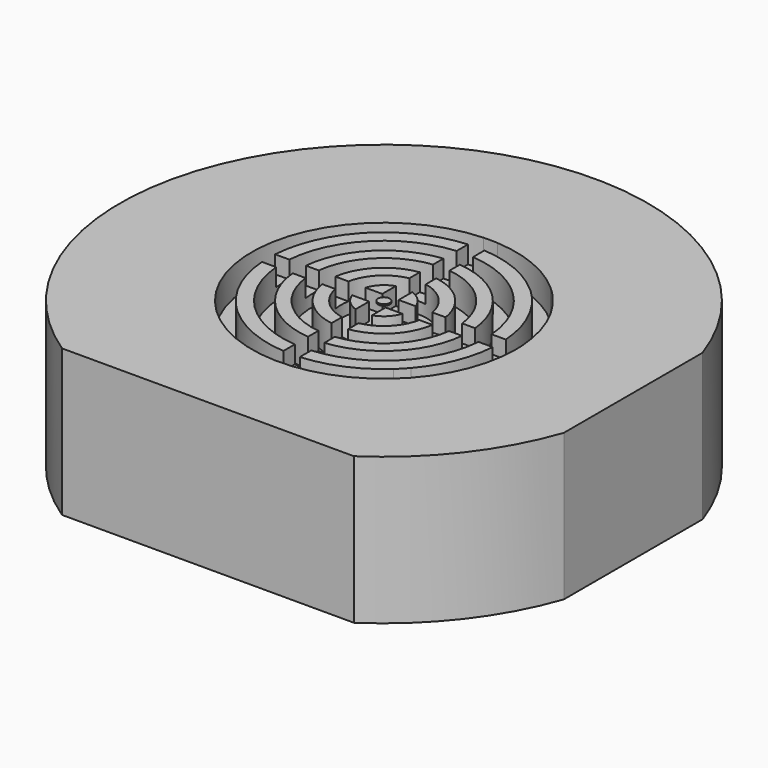
from build123d import *

# Parameters (mm, degrees)
F0_R      = 45
F0_R_2    = 1.5
F1_DEPTH  = 25
F3_DEPTH  = 5
F4_R      = 7.3
F4_R_2    = 4.5
F5_DEPTH  = 5
F6_R      = 12.3
F6_R_2    = 9.5
F7_DEPTH  = 5
F8_R      = 17.3
F8_R_2    = 14.5
F9_DEPTH  = 5
F10_W     = 2.8
F10_H     = 40.706166
F11_W     = 41.5
F11_H     = 2.8
F12_DEPTH = 3
F13_W     = 55
F13_H     = 15
F13_W_2   = 5
F13_H_2   = 30
F14_DEPTH = 25
F15_R     = 1
F16_DEPTH = 0.25


with BuildPart() as f1:
    # F0 (on Top) → F1 (new body)
    with BuildSketch(Plane.XY):
        Circle(F0_R)
        Circle(F0_R_2, mode=Mode.SUBTRACT)
    extrude(amount=F1_DEPTH)

    # F2 (on face) → F3 (cut)
    with BuildSketch(Plane.XY.offset(25)):
        with BuildLine():
            Line((1.39, 19.670951), (1.39, 22.457023))
            ThreePointArc((1.39, 22.457023), (0.195276, 22.499153), (-1, 22.477767))
            Line((-1, 22.477767), (-1, 19.694629))
            ThreePointArc((-1, 19.694629), (0.195359, 19.719032), (1.39, 19.670951))
        make_face()
        with BuildLine():
            ThreePointArc((15.042455, 16.73244), (8.700523, 20.74972), (1.39, 22.457023))
            Line((1.39, 22.457023), (1.39, 19.670951))
            ThreePointArc((1.39, 19.670951), (7.636697, 18.181289), (13.073527, 14.763512))
            Line((13.073527, 14.763512), (15.042455, 16.73244))
        make_face()
        with BuildLine():
            Line((-1, 19.694629), (-1, 22.477767))
            ThreePointArc((-1, 22.477767), (-15.552331, -16.259613), (22.5, 0))
            ThreePointArc((22.5, 0), (22.489253, 0.695332), (22.457023, 1.39))
            Line((22.457023, 1.39), (19.670951, 1.39))
            ThreePointArc((19.670951, 1.39), (19.707734, 0.695433), (19.72, 0))
            ThreePointArc((19.72, 0), (19.713656, -0.500161), (19.694629, -1))
            ThreePointArc((19.694629, -1), (18.307857, -7.328081), (14.945301, -12.865316))
            ThreePointArc((14.945301, -12.865316), (14.138136, -13.747418), (13.278996, -14.578981))
            ThreePointArc((13.278996, -14.578981), (7.76382, -18.127369), (1.39, -19.670951))
            ThreePointArc((1.39, -19.670951), (0.195359, -19.719032), (-1, -19.694629))
            ThreePointArc((-1, -19.694629), (-7.456207, -18.256051), (-13.073527, -14.763512))
            ThreePointArc((-13.073527, -14.763512), (-13.944146, -13.944146), (-14.763512, -13.073527))
            ThreePointArc((-14.763512, -13.073527), (-18.256051, -7.456207), (-19.694629, -1))
            ThreePointArc((-19.694629, -1), (-19.719032, 0.195359), (-19.670951, 1.39))
            ThreePointArc((-19.670951, 1.39), (-18.127369, 7.76382), (-14.578981, 13.278996))
            ThreePointArc((-14.578981, 13.278996), (-13.747418, 14.138136), (-12.865316, 14.945301))
            ThreePointArc((-12.865316, 14.945301), (-7.328081, 18.307857), (-1, 19.694629))
        make_face()
        with BuildLine():
            ThreePointArc((16.73244, 15.042455), (15.909903, 15.909903), (15.042455, 16.73244))
            Line((15.042455, 16.73244), (13.073527, 14.763512))
            ThreePointArc((13.073527, 14.763512), (13.944146, 13.944146), (14.763512, 13.073527))
            Line((14.763512, 13.073527), (16.73244, 15.042455))
        make_face()
        with BuildLine():
            ThreePointArc((22.457023, 1.39), (20.74972, 8.700523), (16.73244, 15.042455))
            Line((16.73244, 15.042455), (14.763512, 13.073527))
            ThreePointArc((14.763512, 13.073527), (18.181289, 7.636697), (19.670951, 1.39))
            Line((19.670951, 1.39), (22.457023, 1.39))
        make_face()
    extrude(amount=-F3_DEPTH, mode=Mode.SUBTRACT)

    # F4 (on face) → F5 (cut)
    with BuildSketch(Plane.XY.offset(25)):
        Circle(F4_R)
        Circle(F4_R_2, mode=Mode.SUBTRACT)
    extrude(amount=-F5_DEPTH, mode=Mode.SUBTRACT)

    # F6 (on face) → F7 (cut)
    with BuildSketch(Plane.XY.offset(25)):
        Circle(F6_R)
        Circle(F6_R_2, mode=Mode.SUBTRACT)
    extrude(amount=-F7_DEPTH, mode=Mode.SUBTRACT)

    # F8 (on face) → F9 (cut)
    with BuildSketch(Plane.XY.offset(25)):
        Circle(F8_R)
        Circle(F8_R_2, mode=Mode.SUBTRACT)
    extrude(amount=-F9_DEPTH, mode=Mode.SUBTRACT)

    # F10 (on face) + F11 (on face) → F12 (cut)
    with BuildSketch(Plane.XY.offset(25)):
        Rectangle(F10_W, F10_H)
    with BuildSketch(Plane.XY.offset(25)):
        Rectangle(F11_W, F11_H)
    extrude(amount=-F12_DEPTH, mode=Mode.SUBTRACT)

    # F13 (on face) → F14 (cut)
    with BuildSketch(Plane.XY.offset(25)):
        with Locations((0, -45)):
            Rectangle(F13_W, F13_H)
        with Locations((45, 0)):
            Rectangle(F13_W_2, F13_H_2)
    extrude(amount=-F14_DEPTH, mode=Mode.SUBTRACT)


with BuildPart() as f16:
    # F15 (on face) → F16 (new body)
    with BuildSketch(Plane.XY.offset(25)):
        Circle(F15_R)
    extrude(amount=-F16_DEPTH)


solid = Compound([f1.part, f16.part])
